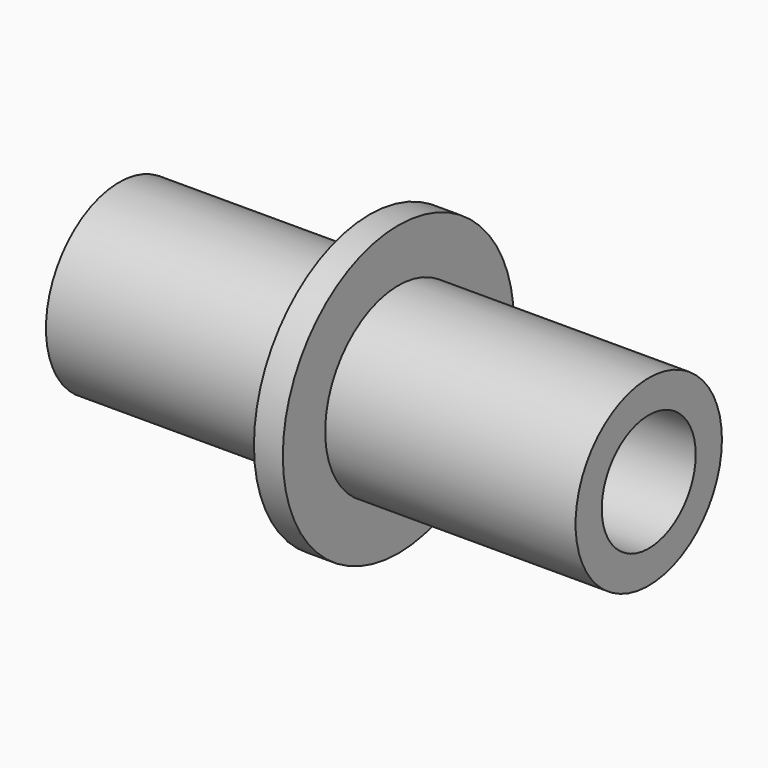
from build123d import *

# Parameters (mm, degrees)
F1_START = -3
F0_R     = 9.5
F0_R_2   = 6.1
F1_DEPTH = 55
F2_START = -29
F0_R_3   = 15
F2_DEPTH = 3


with BuildPart() as f1:
    # F0 (on Right) → F1 (new body)
    with BuildSketch(Plane.YZ.offset(F1_START)):
        Circle(F0_R)
        Circle(F0_R_2, mode=Mode.SUBTRACT)
    extrude(amount=-F1_DEPTH)

    # F0 (on Right) → F2 (join)
    with BuildSketch(Plane.YZ.offset(F2_START)):
        Circle(F0_R_3)
        Circle(F0_R, mode=Mode.SUBTRACT)
    extrude(amount=-F2_DEPTH)


solid = f1.part
